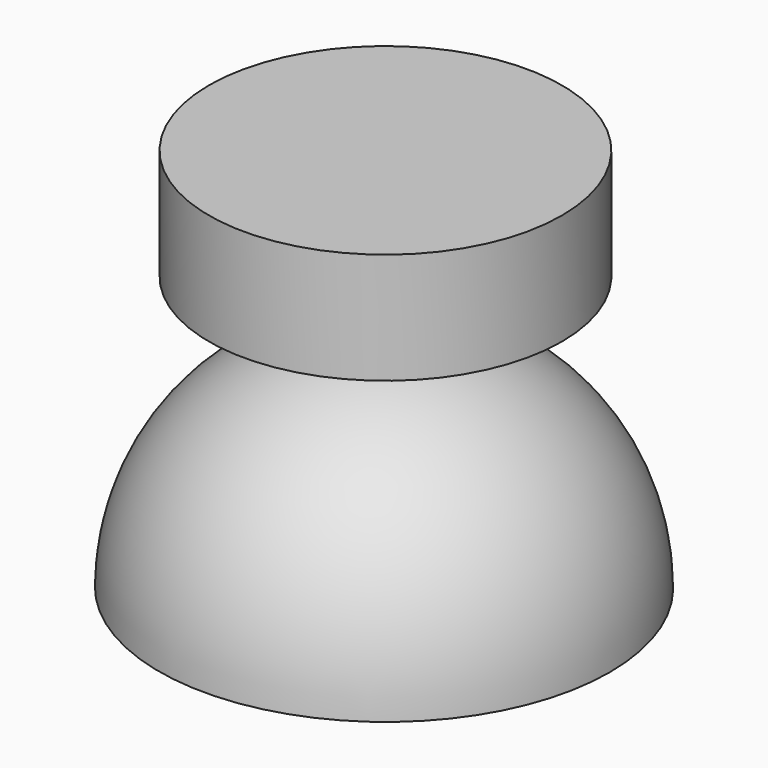
from build123d import *

# Parameters (mm, degrees)
F2_R     = 15.8933759433
F3_DEPTH = 10


with BuildPart() as f1:
    # F0 (on Front) → F1 (revolve)
    with BuildSketch(Plane.XZ):
        with BuildLine():
            ThreePointArc((0, 8.1405518577), (-6.8613237013, 3.1399274332), (-3.4888086375, -4.6517443843))
            ThreePointArc((-3.4888086375, -4.6517443843), (-15.6349382287, -11.5490546445), (-20.4676743597, -24.6542450041))
            Line((-20.4676743597, -24.6542450041), (-0.1296274105, -24.7105385693))
            Line((-0.1296274105, -24.7105385693), (0, 8.1405518577))
        make_face()
    revolve(axis=Axis((-0.0648137053, 0, -8.2849933558), (0.0039458782, 0, 0.999992215)))

    # F2 (on Top) → F3 (join)
    with BuildSketch(Plane.XY):
        Circle(F2_R)
    extrude(amount=F3_DEPTH)


solid = f1.part
